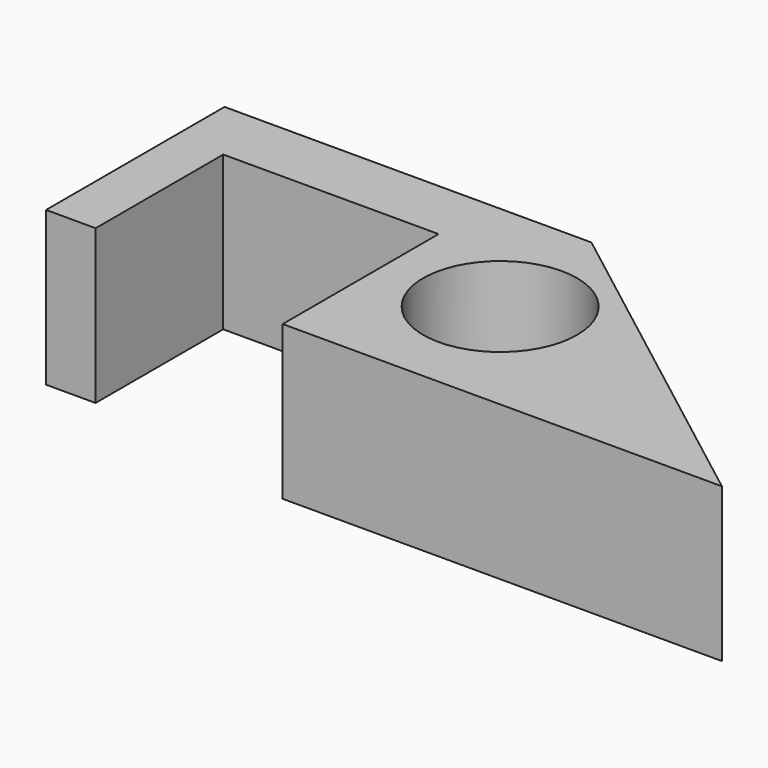
from build123d import *

# Parameters (mm, degrees)
F0_R     = 6.35
F1_DEPTH = 12.7
F2_W     = 4.087012
F2_H     = 12.7
F3_DEPTH = 8.8138
F5_DEPTH = 12.701


with BuildPart() as f1:
    # F0 (on Top) → F1 (new body)
    with BuildSketch(Plane.XY):
        Polygon((-44.868298, 5.242039), (-44.868298, 0), (-44.868298, -4.353558), (-40.781286, -4.353558), (-40.781286, 0), (-23.011663, 0), (-23.011663, -16.081509), (13.23837, -16.081509), (13.23837, 5.242039), (-23.011663, 5.242039), (-40.781286, 5.242039), align=None)
        with Locations((-13.593762, -5.419735)):
            Circle(F0_R, mode=Mode.SUBTRACT)
    extrude(amount=F1_DEPTH)

    # F2 (on face) → F3 (join)
    with BuildSketch(Plane.XZ.offset(4.353558)):
        with Locations((-42.824792, 6.35)):
            Rectangle(F2_W, F2_H)
    extrude(amount=F3_DEPTH)

    # F4 (on face) → F5 (cut, through all)
    with BuildSketch(Plane(origin=(0, 0, 0), x_dir=(1, 0, 0), z_dir=(0, 0, -1))):
        Polygon((13.23837, -5.242039), (13.23837, 16.081509), (-14.590898, -5.242039), align=None)
    extrude(amount=-F5_DEPTH, mode=Mode.SUBTRACT)


solid = f1.part
